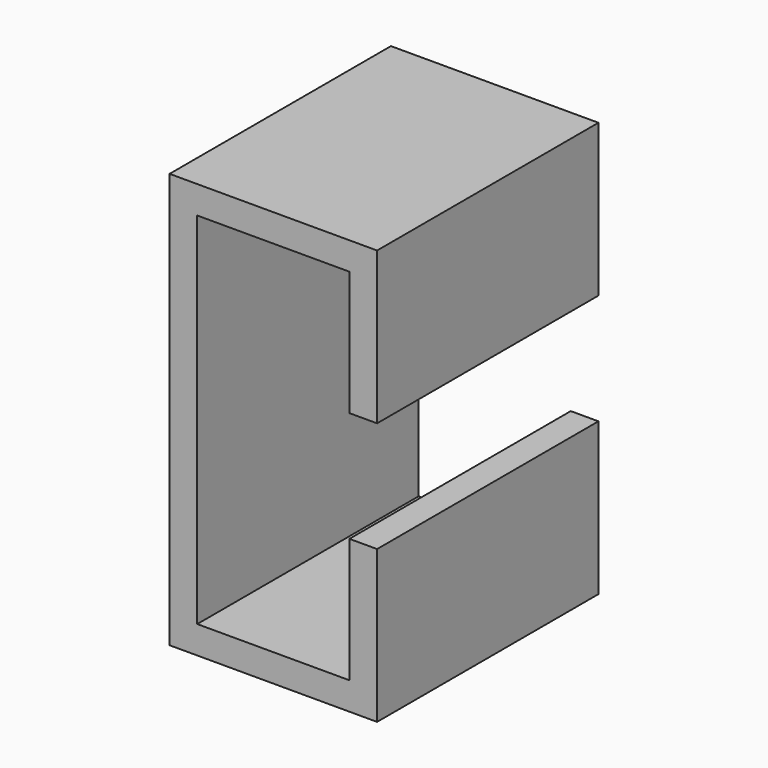
from build123d import *

# Parameters (mm, degrees)
F1_DEPTH = 25.4
F2_T     = -2.54
F3_DEPTH = 25.4
F4_W     = 2.54
F4_H     = 10.16
F5_DEPTH = 25.4


with BuildPart() as f1:
    # F0 (on Front) → F1 (new body)
    with BuildSketch(Plane.XZ):
        Polygon((0, -8.89), (0, 8.89), (0, 19.05), (-19.05, 19.05), (-19.05, 0), (-19.05, -19.05), (0, -19.05), align=None)
    extrude(amount=F1_DEPTH)

    # F2
    f2_openings = [f1.faces().sort_by_distance(p)[0] for p in [
        (-9.525, -25.4, 0),
    ]]
    offset(amount=F2_T, openings=f2_openings)

    # F3 (cut): a face of the model
    f3_faces = [f1.faces().sort_by_distance(p)[0] for p in [
        (-9.525, -2.54, 0),
    ]]
    extrude(f3_faces, amount=-F3_DEPTH, mode=Mode.SUBTRACT)

    # F4 (on face) → F5 (cut)
    with BuildSketch(Plane.XZ.offset(25.4)):
        with Locations((-1.27, 0)):
            Rectangle(F4_W, F4_H)
    extrude(amount=-F5_DEPTH, mode=Mode.SUBTRACT)


solid = f1.part
